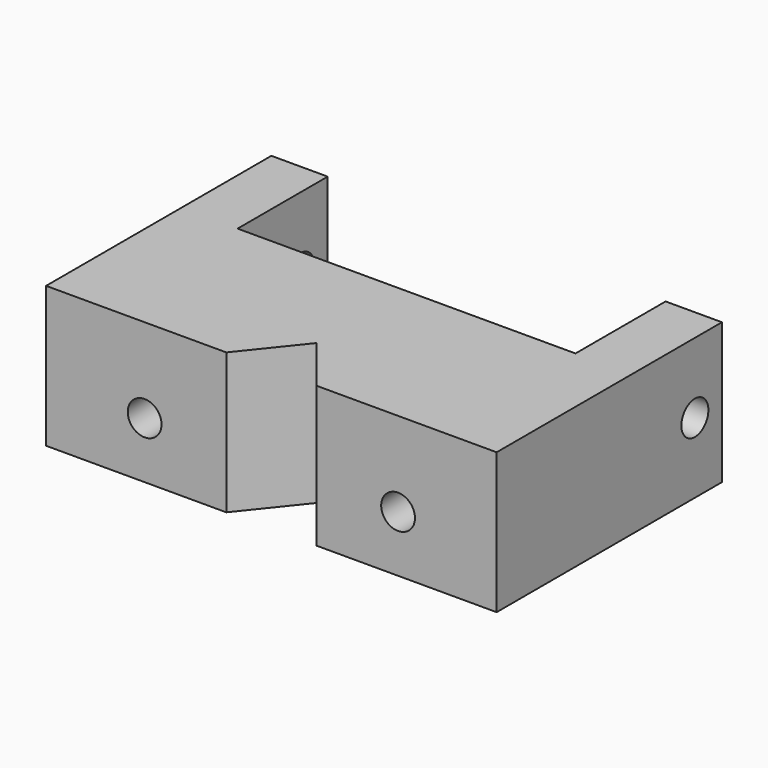
from build123d import *

# Parameters (mm, degrees)
F1_DEPTH = 25
F2_R     = 3
F3_DEPTH = 50.001
F4_R     = 3
F5_DEPTH = 80.001


with BuildPart() as f1:
    # F0 (on Top) → F1 (new body)
    with BuildSketch(Plane.XY):
        Polygon((10, 50), (0, 50), (0, 0), (32, 0), (40, 10), (48, 0), (80, 0), (80, 50), (70, 50), (70, 30), (10, 30), align=None)
    extrude(amount=F1_DEPTH)

    # F2 (on face) → F3 (cut, through all)
    with BuildSketch(Plane.XZ):
        with Locations((17.5, 10)):
            Circle(F2_R)
        with Locations((62.5, 10)):
            Circle(F2_R)
    extrude(amount=-F3_DEPTH, mode=Mode.SUBTRACT)

    # F4 (on face) → F5 (cut, through all)
    with BuildSketch(Plane(origin=(0, 0, 0), x_dir=(0, -1, 0), z_dir=(-1, 0, 0))):
        with Locations((-44, 12.5)):
            Circle(F4_R)
    extrude(amount=-F5_DEPTH, mode=Mode.SUBTRACT)


solid = f1.part
